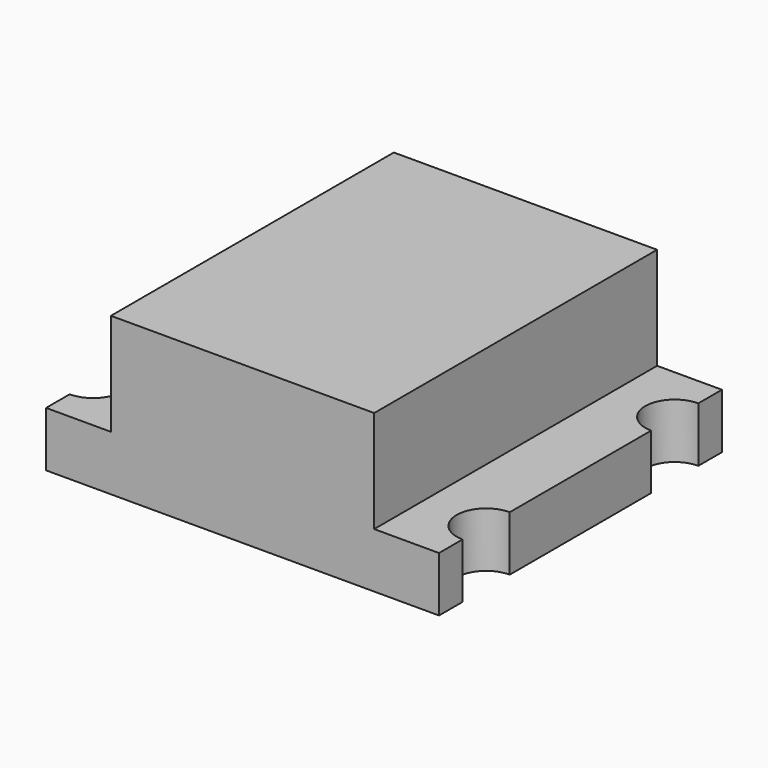
from build123d import *

# Parameters (mm, degrees)
SKETCH_W     = 2
SKETCH_H     = 1.8
PAD_DEPTH    = 0.28
SKETCH001_W  = 1.34
SKETCH001_H  = 1.8
PAD001_DEPTH = 0.52
SKETCH002_R  = 0.15
POCKET_DEPTH = 1


with BuildPart() as part:
    # Sketch → Pad (new body)
    with BuildSketch(Plane.XY):
        Rectangle(SKETCH_W, SKETCH_H)
    extrude(amount=PAD_DEPTH)

    # Sketch001 (on Face6 of Pad) → Pad001 (join)
    with BuildSketch(Plane.XY.offset(0.28)):
        Rectangle(SKETCH001_W, SKETCH001_H)
    extrude(amount=PAD001_DEPTH)

    # Sketch002 (on Face5 of Pad001) → Pocket (cut)
    with BuildSketch(Plane.XY.offset(0.28)):
        with Locations((1, 0.6)):
            Circle(SKETCH002_R)
        with Locations((1, -0.6)):
            Circle(SKETCH002_R)
        with Locations((-1, 0.6)):
            Circle(SKETCH002_R)
        with Locations((-1, -0.6)):
            Circle(SKETCH002_R)
    extrude(amount=-POCKET_DEPTH, mode=Mode.SUBTRACT)


solid = part.part
